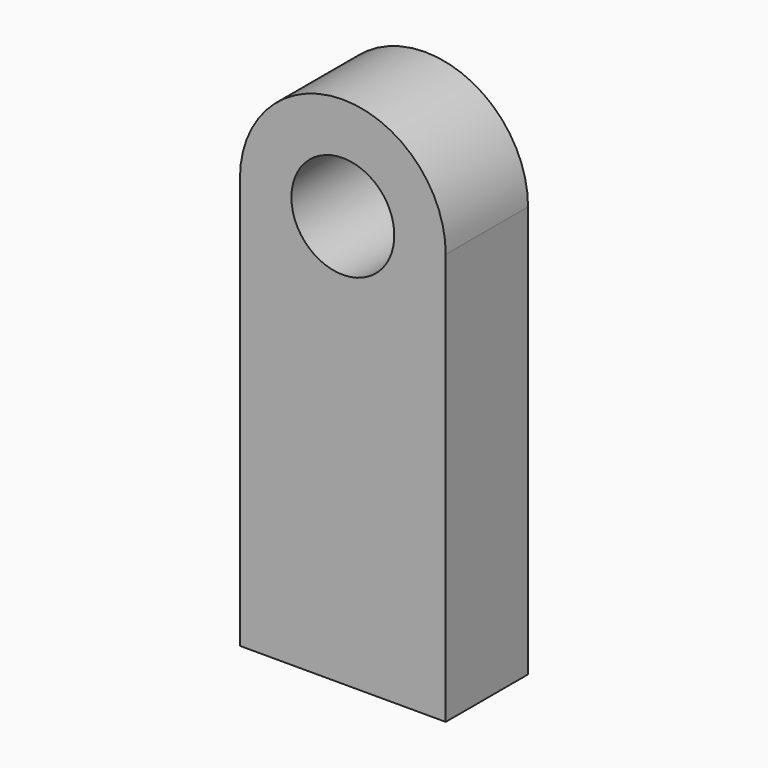
from build123d import *

# Parameters (mm, degrees)
F1_DEPTH = 2.5


with BuildPart() as f1:
    # F0 (on Front) → F1 (new body, symmetric)
    with BuildSketch(Plane.XZ):
        with BuildLine():
            Line((5, -20), (5, 0))
            Line((5, 0), (2.5, 0))
            ThreePointArc((2.5, 0), (0, -2.5), (-2.5, 0))
            Line((-2.5, 0), (-5, 0))
            Line((-5, 0), (-5, -20))
            Line((-5, -20), (5, -20))
        make_face()
        with BuildLine():
            Line((2.5, 0), (5, 0))
            ThreePointArc((5, 0), (0, 5), (-5, 0))
            Line((-5, 0), (-2.5, 0))
            ThreePointArc((-2.5, 0), (0, 2.5), (2.5, 0))
        make_face()
    extrude(amount=F1_DEPTH, both=True)


solid = f1.part
